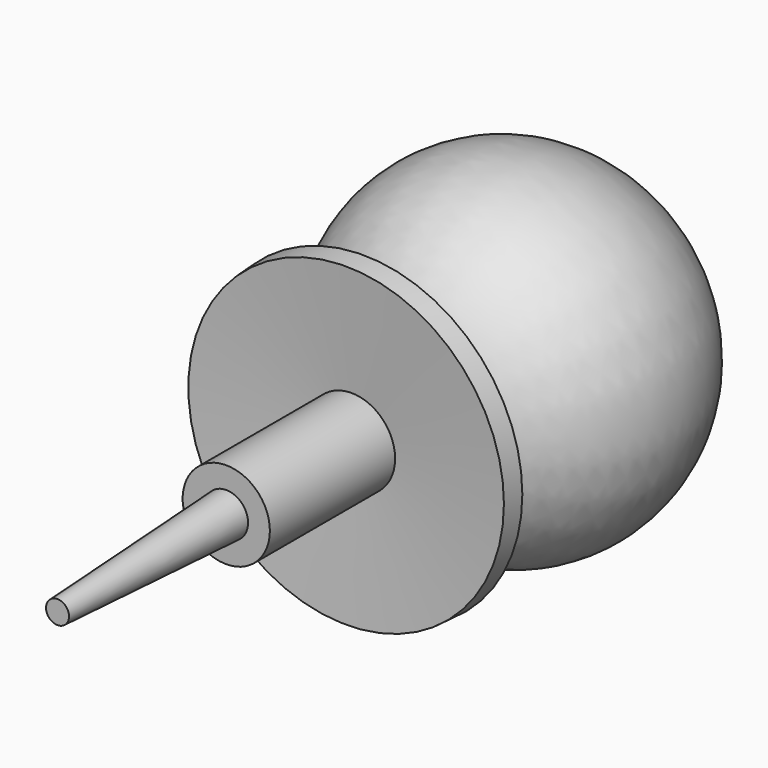
from build123d import *


with BuildPart() as f1:
    # F0 (on Top) → F1 (revolve)
    with BuildSketch(Plane.XY):
        with BuildLine():
            ThreePointArc((7.462136, 0), (3.731068, -0.27257), (0, 0))
            Line((0, 0), (0, -34.915455))
            Line((0, -34.915455), (3.731068, -34.915455))
            Line((3.731068, -34.915455), (7.462136, -34.915455))
            Line((7.462136, -34.915455), (7.462136, -8.123699))
            Line((7.462136, -8.123699), (7.462136, -5.225024))
            Line((7.462136, -5.225024), (7.462136, 0))
        make_face()
        Polygon((27.220802, -5.603713), (7.462136, -5.225024), (7.462136, -8.123699), (27.004946, -9.273275), align=None)
        Polygon((3.731068, -34.915455), (0, -34.915455), (0, -71.008265), (1.965578, -71.008265), align=None)
        with BuildLine():
            Line((0, 50.8), (0, 0))
            ThreePointArc((0, 0), (3.731068, -0.27257), (7.462136, 0))
            ThreePointArc((7.462136, 0), (29.131068, 29.131068), (0, 50.8))
        make_face()
    revolve(axis=Axis((0, 25.4, 0), (0, 1, 0)))


solid = f1.part
